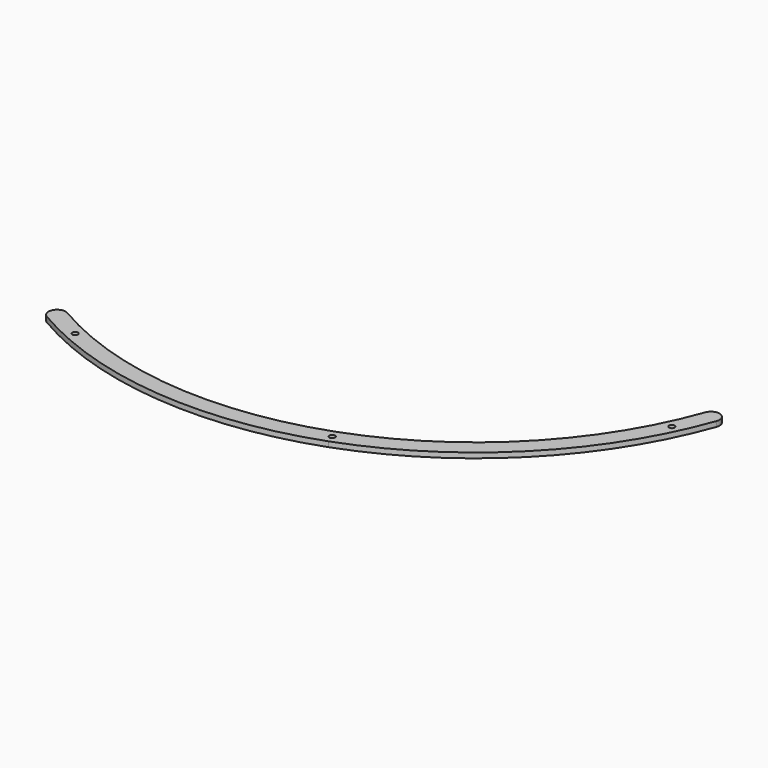
from build123d import *

# Parameters (mm, degrees)
PAD014_DEPTH                        = 3
SKETCH055_R                         = 1.65
POCKET019_DEPTH                     = 364.282338
POCKET019_DEPTH_BACK                = 367.282338
BODY001003005003003_PLACEMENT_ANGLE = 60
CLONE001_PLACEMENT_ANGLE            = 140


with BuildPart() as part:
    # Sketch052 → Pad014 (new body)
    with BuildSketch(Plane.XY):
        with BuildLine():
            ThreePointArc((152.959511, 127.101705), (84.480895, 180.040089), (0, 198.875477))
            Line((0, 198.875477), (0, 208.875477))
            ThreePointArc((160.650731, 133.492724), (88.728824, 189.092995), (0, 208.875477))
            ThreePointArc((152.959511, 127.101705), (160.000631, 126.451604), (160.650731, 133.492724))
        make_face()
    pad014 = extrude(amount=PAD014_DEPTH)

    # Sketch055 → Pocket019 (cut, two sides)
    with BuildSketch(Plane.XY) as pocket019_sk:
        with Locations((143.11, 145.205847)):
            Circle(SKETCH055_R)
        with BuildLine():
            Line((0, 202.225477), (0, 205.525477))
            ThreePointArc((0, 202.225477), (1.65, 203.875477), (0, 205.525477))
        make_face()
    pocket019 = extrude(amount=-POCKET019_DEPTH, mode=Mode.SUBTRACT) + extrude(pocket019_sk.sketch, amount=POCKET019_DEPTH_BACK, mode=Mode.SUBTRACT)

    # Mirrored019: Pad014, Pocket019 across Sketch052 V_Axis
    add(pad014.mirror(Plane(origin=(0, 0, 0), x_dir=(0, 0, 1), z_dir=(1, 0, 0))))
    add(pocket019.mirror(Plane(origin=(0, 0, 0), x_dir=(0, 0, 1), z_dir=(1, 0, 0))), mode=Mode.SUBTRACT)


with BuildPart() as part_1:
    # Body001003005003003 placement: moved
    add(part.part.rotate(Axis((0, 0, 0), (0, 0, 1)), BODY001003005003003_PLACEMENT_ANGLE))


with BuildPart() as part_2:
    # Clone001 placement: moved
    add(part_1.part.moved(Location((1303, 744, 0))).rotate(Axis((1303, 744, 0), (0, 0, 1)), CLONE001_PLACEMENT_ANGLE))


solid = part_2.part
